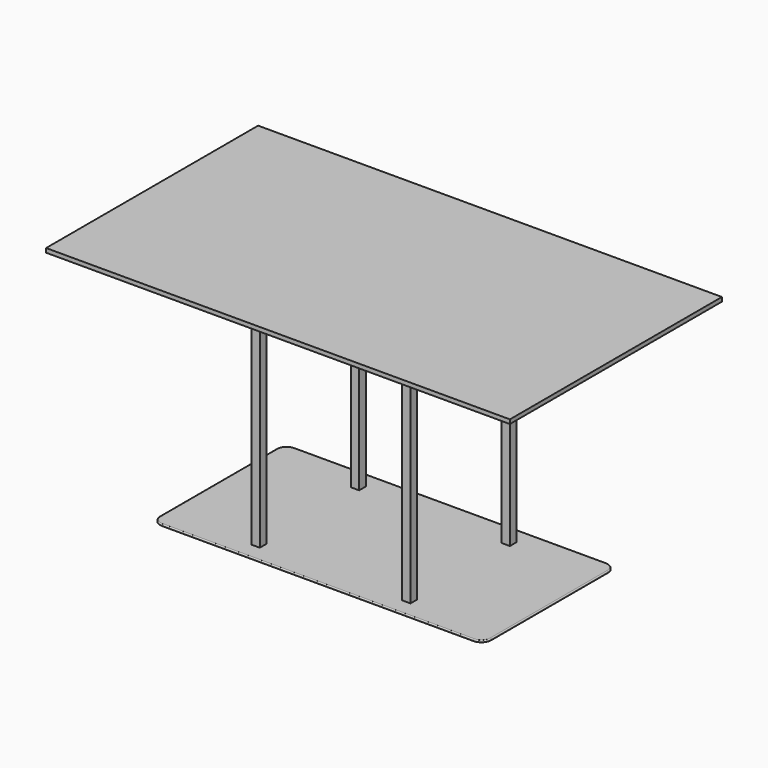
from build123d import *

# Parameters (mm, degrees)
F1_W      = 1400
F1_H      = 800
F2_DEPTH  = 25
F3_SIZE2  = 12.5
F3_SIZE   = 40
F5_W      = 480
F5_H      = 400
F5_W_2    = 430
F5_H_2    = 350
F6_DEPTH  = 25
F9_DEPTH  = 25
F12_DEPTH = 25
F14_W     = 1000
F14_H     = 500
F15_DEPTH = 5
F16_R     = 30
F17_R     = 3


with BuildPart() as f2:
    # F1 (on offset) → F2 (new body)
    with BuildSketch(Plane.XY.offset(700)):
        with Locations((-700, 400)):
            Rectangle(F1_W, F1_H)
    extrude(amount=F2_DEPTH)

    # F3
    f3_edges = [f2.edges().sort_by_distance(p)[0] for p in [
        (-700, 0, 700),
        (0, 400, 700),
        (-700, 800, 700),
        (-1400, 400, 700),
    ]]
    f3_side = f2.faces().sort_by_distance((-700, 400, 700))[0]
    chamfer(f3_edges, length=F3_SIZE, length2=F3_SIZE2, reference=f3_side)

    # F5 (on offset) → F6 (join)
    with BuildSketch(Plane(origin=(0, 0, 700), x_dir=(1, 0, 0), z_dir=(0, 0, -1))):
        with Locations((-700, -400)):
            Rectangle(F5_W, F5_H)
        with Locations((-700, -400)):
            Rectangle(F5_W_2, F5_H_2, mode=Mode.SUBTRACT)
    extrude(amount=F6_DEPTH)


with BuildPart() as f9:
    # F8 (on offset) → F9 (new body)
    with BuildSketch(Plane.YZ.offset(-460)):
        Polygon((575, 25), (575, 0), (600, 0), (600, 675), (575, 675), (575, 650), align=None)
    extrude(amount=-F9_DEPTH)


with BuildPart() as f9b:
    # F8 (on offset) → F9, piece 2 (new body)
    with BuildSketch(Plane.YZ.offset(-460)):
        Polygon((225, 675), (200, 675), (200, 0), (225, 0), (225, 25), (225, 650), align=None)
    extrude(amount=-F9_DEPTH)


with BuildPart() as f12:
    # F11 (on offset) → F12 (new body)
    with BuildSketch(Plane(origin=(-940, 0, 0), x_dir=(0, -1, 0), z_dir=(-1, 0, 0))):
        Polygon((-600, 0), (-575, 0), (-575, 25), (-575, 675), (-600, 675), align=None)
    extrude(amount=-F12_DEPTH)


with BuildPart() as f12b:
    # F11 (on offset) → F12, piece 2 (new body)
    with BuildSketch(Plane(origin=(-940, 0, 0), x_dir=(0, -1, 0), z_dir=(-1, 0, 0))):
        Polygon((-225, 0), (-200, 0), (-200, 675), (-225, 675), (-225, 25), align=None)
    extrude(amount=-F12_DEPTH)


with BuildPart() as f15:
    # F14 (on offset) → F15 (new body)
    with BuildSketch(Plane(origin=(0, 0, 0), x_dir=(1, 0, 0), z_dir=(0, 0, -1))):
        with Locations((-700, -400)):
            Rectangle(F14_W, F14_H)
    extrude(amount=-F15_DEPTH)

    # F16
    f16_edges = [f15.edges().sort_by_distance(p)[0] for p in [
        (-1200, 150, 2.5),
        (-1200, 650, 2.5),
        (-200, 650, 2.5),
        (-200, 150, 2.5),
    ]]
    fillet(f16_edges, radius=F16_R)

    # F17
    f17_edges = [f15.edges().sort_by_distance(p)[0] for p in [
        (-200, 400, 5),
        (-208.786797, 641.213203, 5),
        (-700, 650, 5),
        (-1191.213203, 641.213203, 5),
        (-1200, 400, 5),
        (-700, 150, 5),
        (-208.786797, 158.786797, 5),
        (-1191.213203, 158.786797, 5),
    ]]
    fillet(f17_edges, radius=F17_R)


solid = Compound([f2.part, f9.part, f9b.part, f12.part, f12b.part, f15.part])
